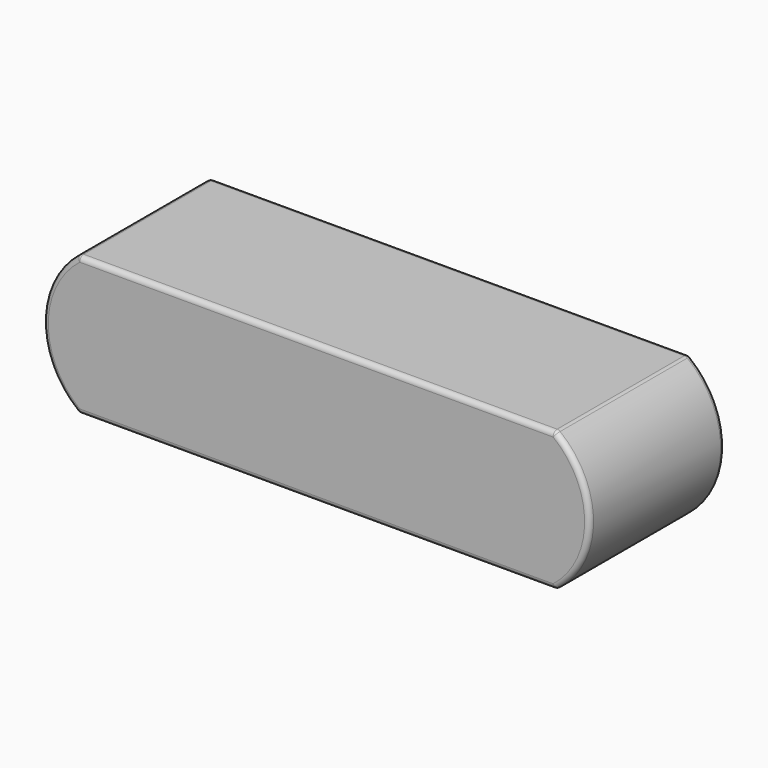
from build123d import *

# Parameters (mm, degrees)
F1_DEPTH = 34
F2_R     = 1


with BuildPart() as f1:
    # F0 (on Front) → F1 (new body)
    with BuildSketch(Plane.XZ):
        with BuildLine():
            Line((-48, -14), (48, -14))
            ThreePointArc((48, -14), (55.003177, 0), (48, 14))
            Line((48, 14), (-48, 14))
            ThreePointArc((-48, 14), (-55.003177, 0), (-48, -14))
        make_face()
    extrude(amount=F1_DEPTH)

    # F2
    f2_edges = [f1.edges().sort_by_distance(p)[0] for p in [
        (-55.003177, -34, 0),
        (0, -34, -14),
        (55.003177, -34, 0),
        (0, -34, 14),
        (-55.003177, 0, 0),
        (0, 0, -14),
        (55.003177, 0, 0),
        (0, 0, 14),
        (48, -17, 14),
        (-48, -17, 14),
        (-48, -17, -14),
        (48, -17, -14),
    ]]
    fillet(f2_edges, radius=F2_R)


solid = f1.part
